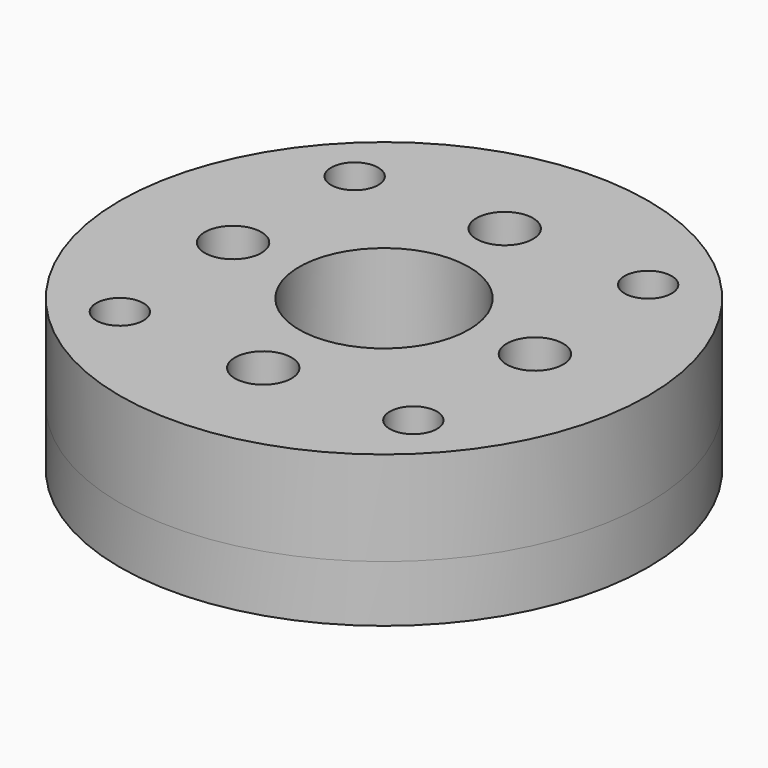
from build123d import *

# Parameters (mm, degrees)
F0_R     = 14
F0_R_2   = 1.25
F0_R_3   = 3
F0_R_4   = 4.5
F1_DEPTH = 3
F0_R_5   = 1.5
F2_DEPTH = 5


with BuildPart() as f1:
    # F0 (on Top) → F1 (new body)
    with BuildSketch(Plane.XY):
        Circle(F0_R)
        with Locations((-7.7781745931, -7.7781745931)):
            Circle(F0_R_2, mode=Mode.SUBTRACT)
        with Locations((0, -8)):
            Circle(F0_R_3, mode=Mode.SUBTRACT)
        with Locations((7.7781745931, -7.7781745931)):
            Circle(F0_R_2, mode=Mode.SUBTRACT)
        with Locations((-8, 0)):
            Circle(F0_R_3, mode=Mode.SUBTRACT)
        with Locations((-7.7781745931, 7.7781745931)):
            Circle(F0_R_2, mode=Mode.SUBTRACT)
        Circle(F0_R_4, mode=Mode.SUBTRACT)
        with Locations((8, 0)):
            Circle(F0_R_3, mode=Mode.SUBTRACT)
        with Locations((0, 8)):
            Circle(F0_R_3, mode=Mode.SUBTRACT)
        with Locations((7.7781745931, 7.7781745931)):
            Circle(F0_R_2, mode=Mode.SUBTRACT)
    extrude(amount=-F1_DEPTH)

    # F0 (on Top) → F2 (join)
    with BuildSketch(Plane.XY):
        Circle(F0_R)
        with Locations((-7.7781745931, -7.7781745931)):
            Circle(F0_R_2, mode=Mode.SUBTRACT)
        with Locations((0, -8)):
            Circle(F0_R_3, mode=Mode.SUBTRACT)
        with Locations((7.7781745931, -7.7781745931)):
            Circle(F0_R_2, mode=Mode.SUBTRACT)
        with Locations((-8, 0)):
            Circle(F0_R_3, mode=Mode.SUBTRACT)
        with Locations((-7.7781745931, 7.7781745931)):
            Circle(F0_R_2, mode=Mode.SUBTRACT)
        Circle(F0_R_4, mode=Mode.SUBTRACT)
        with Locations((8, 0)):
            Circle(F0_R_3, mode=Mode.SUBTRACT)
        with Locations((0, 8)):
            Circle(F0_R_3, mode=Mode.SUBTRACT)
        with Locations((7.7781745931, 7.7781745931)):
            Circle(F0_R_2, mode=Mode.SUBTRACT)
        with Locations((-8, 0)):
            Circle(F0_R_3)
        with Locations((-8, 0)):
            Circle(F0_R_5, mode=Mode.SUBTRACT)
        with Locations((0, 8)):
            Circle(F0_R_3)
        with Locations((0, 8)):
            Circle(F0_R_5, mode=Mode.SUBTRACT)
        with Locations((8, 0)):
            Circle(F0_R_3)
        with Locations((8, 0)):
            Circle(F0_R_5, mode=Mode.SUBTRACT)
        with Locations((0, -8)):
            Circle(F0_R_3)
        with Locations((0, -8)):
            Circle(F0_R_5, mode=Mode.SUBTRACT)
    extrude(amount=F2_DEPTH)


solid = f1.part
